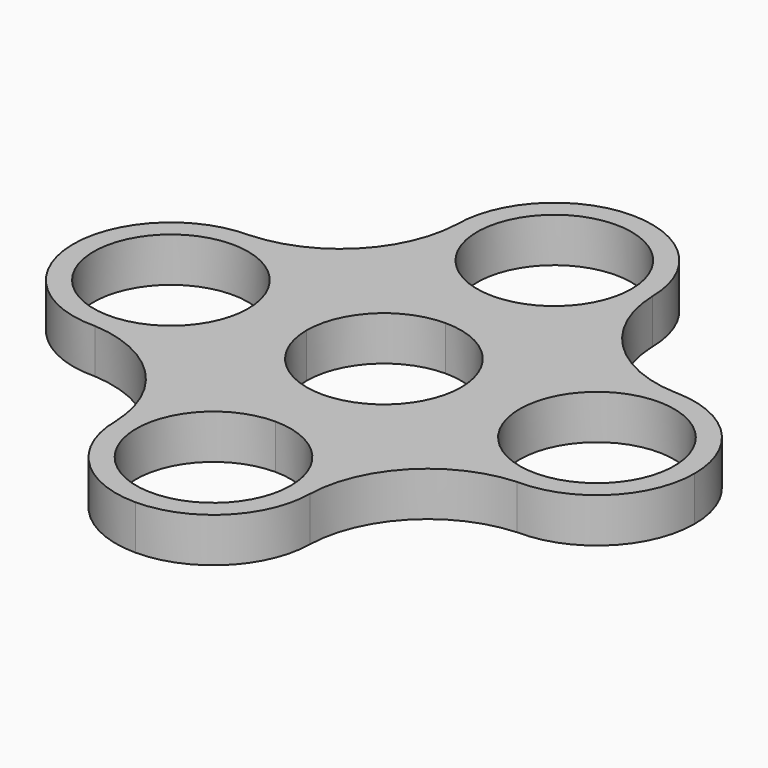
from build123d import *

# Parameters (mm, degrees)
F0_R     = 11.049
F1_DEPTH = 6.35


with BuildPart() as f1:
    # F0 (on Top) → F1 (new body)
    with BuildSketch(Plane.XY):
        with BuildLine():
            ThreePointArc((30.5423546194, 13.9698608404), (19.000422111, 19.0038325132), (13.9698381707, 30.547241977))
            ThreePointArc((13.9698381707, 30.547241977), (13.9699595426, 30.5136210859), (13.97, 30.48))
            ThreePointArc((13.97, 30.48), (9.8782817373, 20.6017182709), (1.15e-08, 16.51))
            ThreePointArc((1.15e-08, 16.51), (11.6743329615, 11.6743329533), (16.51, 0))
            ThreePointArc((16.51, 0), (20.623788609, 9.900302875), (30.5423546194, 13.9698608404))
        make_face()
        with BuildLine():
            ThreePointArc((1.15e-08, 16.51), (-9.8782817291, 20.6017182627), (-13.97, 30.48))
            ThreePointArc((-13.97, 30.48), (-18.9768088864, 19.0202694582), (-30.4173910664, 13.969859703))
            ThreePointArc((-30.4173910664, 13.969859703), (-20.5796074118, 9.8561212756), (-16.51, 0))
            ThreePointArc((-16.51, 0), (-11.6743329533, 11.6743329615), (1.15e-08, 16.51))
        make_face()
        with BuildLine():
            ThreePointArc((-30.4173910664, 13.969859703), (-40.3361211962, 9.9003926673), (-44.45, 2.241e-07))
            ThreePointArc((-44.45, 2.241e-07), (-40.2581741683, -9.9773849246), (-30.1982875449, -13.9671592707))
            ThreePointArc((-30.1982875449, -13.9671592707), (-20.5026149969, -9.7781740883), (-16.51, 0))
            ThreePointArc((-16.51, 0), (-20.5796074118, 9.8561212756), (-30.4173910664, 13.969859703))
        make_face()
        with Locations((-30.48, 0)):
            Circle(F0_R, mode=Mode.SUBTRACT)
        with BuildLine():
            ThreePointArc((-30.1982875449, -13.9671592707), (-18.895154623, -19.0895439026), (-13.97, -30.48))
            ThreePointArc((-13.97, -30.48), (-9.8782817214, -20.6017182551), (3.33e-08, -16.51))
            ThreePointArc((3.33e-08, -16.51), (-11.6743329456, -11.6743329692), (-16.51, 0))
            ThreePointArc((-16.51, 0), (-20.5026149969, -9.7781740883), (-30.1982875449, -13.9671592707))
        make_face()
        with BuildLine():
            ThreePointArc((13.9686715274, -30.6726545055), (18.8427220321, -19.1504715121), (30.2294023882, -13.9677521755))
            ThreePointArc((30.2294023882, -13.9677521755), (20.5135124382, -9.7892811626), (16.51, 0))
            ThreePointArc((16.51, 0), (11.6743329692, -11.6743329456), (3.33e-08, -16.51))
            ThreePointArc((3.33e-08, -16.51), (9.8782817449, -20.6017182786), (13.97, -30.48))
            ThreePointArc((13.97, -30.48), (13.9696678779, -30.5763295429), (13.9686715274, -30.6726545055))
        make_face()
        with BuildLine():
            ThreePointArc((3.33e-08, -16.51), (11.6743329692, -11.6743329456), (16.51, 0))
            Line((16.51, 0), (11.049, 0))
            ThreePointArc((11.049, 0), (7.8128228253, -7.8128228253), (0, -11.049))
            Line((0, -11.049), (0, -16.51))
        make_face()
        with BuildLine():
            Line((11.049, 0), (16.51, 0))
            ThreePointArc((16.51, 0), (11.6743329615, 11.6743329533), (1.15e-08, 16.51))
            Line((0, 16.51), (0, 11.049))
            ThreePointArc((0, 11.049), (7.8128228253, 7.8128228253), (11.049, 0))
        make_face()
        with BuildLine():
            Line((0, 11.049), (0, 16.51))
            ThreePointArc((1.15e-08, 16.51), (-11.6743329533, 11.6743329615), (-16.51, 0))
            Line((-16.51, 0), (-11.049, 0))
            ThreePointArc((-11.049, 0), (-7.8128228253, 7.8128228253), (0, 11.049))
        make_face()
        with BuildLine():
            ThreePointArc((-16.51, 0), (-11.6743329456, -11.6743329692), (3.33e-08, -16.51))
            Line((0, -16.51), (0, -11.049))
            ThreePointArc((0, -11.049), (-7.8128228253, -7.8128228253), (-11.049, 0))
            Line((-11.049, 0), (-16.51, 0))
        make_face()
        with BuildLine():
            ThreePointArc((-13.97, -30.48), (-9.8782816496, -40.3582818168), (2.364e-07, -44.45))
            ThreePointArc((2.364e-07, -44.45), (9.8099316986, -40.4261620774), (13.9686715274, -30.6726545055))
            ThreePointArc((13.9686715274, -30.6726545055), (13.9696678779, -30.5763295429), (13.97, -30.48))
            ThreePointArc((13.97, -30.48), (9.8782817449, -20.6017182786), (3.33e-08, -16.51))
            ThreePointArc((3.33e-08, -16.51), (-9.8782817214, -20.6017182551), (-13.97, -30.48))
        make_face()
        with BuildLine():
            ThreePointArc((11.049, -30.48), (-7.8128228253, -38.2928228253), (0, -19.431))
            ThreePointArc((0, -19.431), (7.8128228253, -22.6671771747), (11.049, -30.48))
        make_face(mode=Mode.SUBTRACT)
        with BuildLine():
            ThreePointArc((30.2294023882, -13.9677521755), (40.2692811626, -9.9664875618), (44.45, 0))
            ThreePointArc((44.45, 0), (40.5557673489, 9.6767666258), (31.0441571466, 13.9586040389))
            ThreePointArc((31.0441571466, 13.9586040389), (30.7932148695, 13.9624041517), (30.5423546194, 13.9698608404))
            ThreePointArc((30.5423546194, 13.9698608404), (20.623788609, 9.900302875), (16.51, 0))
            ThreePointArc((16.51, 0), (20.5135124382, -9.7892811626), (30.2294023882, -13.9677521755))
        make_face()
        with BuildLine():
            ThreePointArc((41.529, 0), (30.48, -11.049), (19.431, 0))
            ThreePointArc((19.431, 0), (30.48, 11.049), (41.529, 0))
        make_face(mode=Mode.SUBTRACT)
        with BuildLine():
            ThreePointArc((13.9698381707, 30.547241977), (9.8544794632, 40.382026788), (1.001e-07, 44.45))
            ThreePointArc((1.001e-07, 44.45), (-9.8782816978, 40.3582817686), (-13.97, 30.48))
            ThreePointArc((-13.97, 30.48), (-9.8782817291, 20.6017182627), (1.15e-08, 16.51))
            ThreePointArc((1.15e-08, 16.51), (9.8782817373, 20.6017182709), (13.97, 30.48))
            ThreePointArc((13.97, 30.48), (13.9699595426, 30.5136210859), (13.9698381707, 30.547241977))
        make_face()
        with BuildLine():
            ThreePointArc((11.049, 30.48), (7.8128228253, 22.6671771747), (0, 19.431))
            ThreePointArc((0, 19.431), (-7.8128228253, 38.2928228253), (11.049, 30.48))
        make_face(mode=Mode.SUBTRACT)
    extrude(amount=F1_DEPTH)


solid = f1.part
